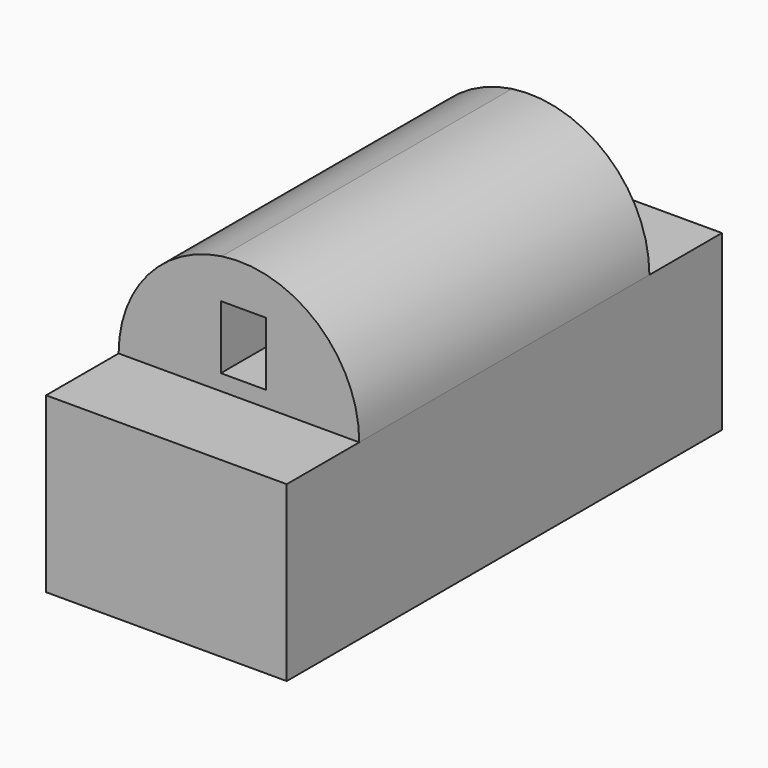
from build123d import *

# Parameters (mm, degrees)
F1_DEPTH = 38.1
F2_DEPTH = 25.4
F3_DEPTH = 12.7


with BuildPart() as f1:
    # F0 (on Front) → F1 (new body, symmetric)
    with BuildSketch(Plane.XZ):
        Polygon((7.498131, 18.303821), (-11.430653, 18.303821), (-11.430653, -5.979048), (22.280489, -5.979048), (22.280489, 18.303821), (14.65952, 18.303821), align=None)
    extrude(amount=F1_DEPTH, both=True)

    # F0 (on Front) → F2 (join, symmetric)
    with BuildSketch(Plane.XZ):
        Polygon((7.498131, 20.526321), (7.498131, 18.303821), (14.65952, 18.303821), (14.65952, 20.526321), (9.238502, 20.526321), align=None)
        with BuildLine():
            ThreePointArc((3.028655, 34.988191), (-7.312834, 29.34284), (-11.430653, 18.303821))
            Line((-11.430653, 18.303821), (7.498131, 18.303821))
            Line((7.498131, 18.303821), (7.498131, 20.526321))
            Line((7.498131, 20.526321), (2.888502, 20.526321))
            Line((2.888502, 20.526321), (2.888502, 29.416321))
            Line((2.888502, 29.416321), (9.238502, 29.416321))
            Line((9.238502, 29.416321), (9.238502, 20.526321))
            Line((9.238502, 20.526321), (14.65952, 20.526321))
            Line((14.65952, 20.526321), (14.65952, 18.303821))
            Line((14.65952, 18.303821), (22.280489, 18.303821))
            ThreePointArc((22.280489, 18.303821), (16.463937, 31.041573), (3.028655, 34.988191))
        make_face()
    extrude(amount=F2_DEPTH, both=True)

    # F0 (on Front) → F3 (join, symmetric)
    with BuildSketch(Plane.XZ):
        Polygon((2.888502, 20.526321), (7.498131, 20.526321), (9.238502, 20.526321), (9.238502, 29.416321), (2.888502, 29.416321), align=None)
    extrude(amount=F3_DEPTH, both=True)


solid = f1.part
